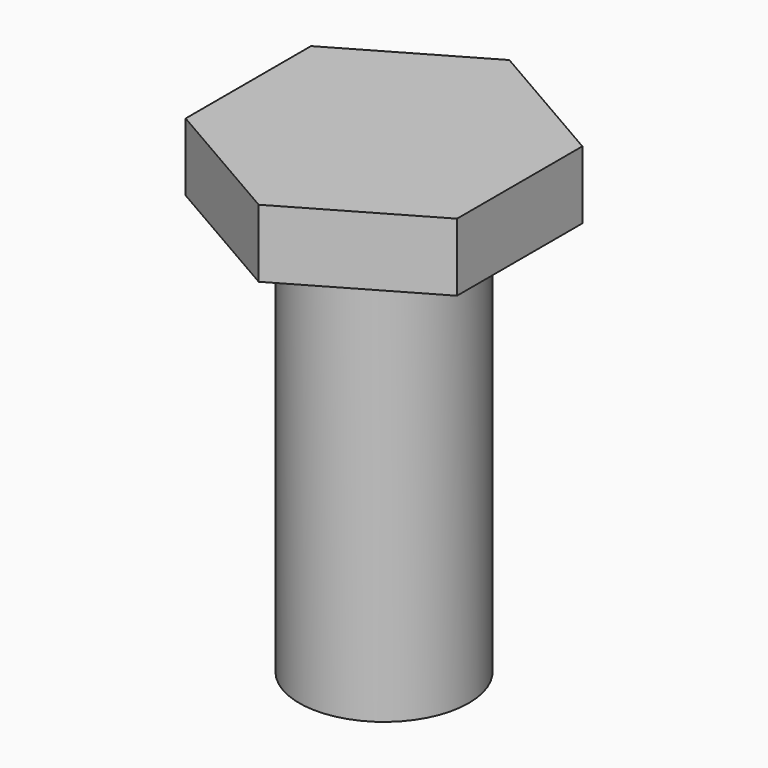
from build123d import *

# Parameters (mm, degrees)
F0_R     = 2.5
F1_DEPTH = 12
F3_DEPTH = 2


with BuildPart() as f1:
    # F0 (on Top) → F1 (new body)
    with BuildSketch(Plane.XY):
        Circle(F0_R)
    extrude(amount=F1_DEPTH)

    # F2 (on face) → F3 (join)
    with BuildSketch(Plane.XY.offset(12)):
        Polygon((-4, 2.309401), (-4, -2.309401), (0, -4.618802), (4, -2.309401), (4, 2.309401), (0, 4.618802), align=None)
    extrude(amount=F3_DEPTH)


solid = f1.part
